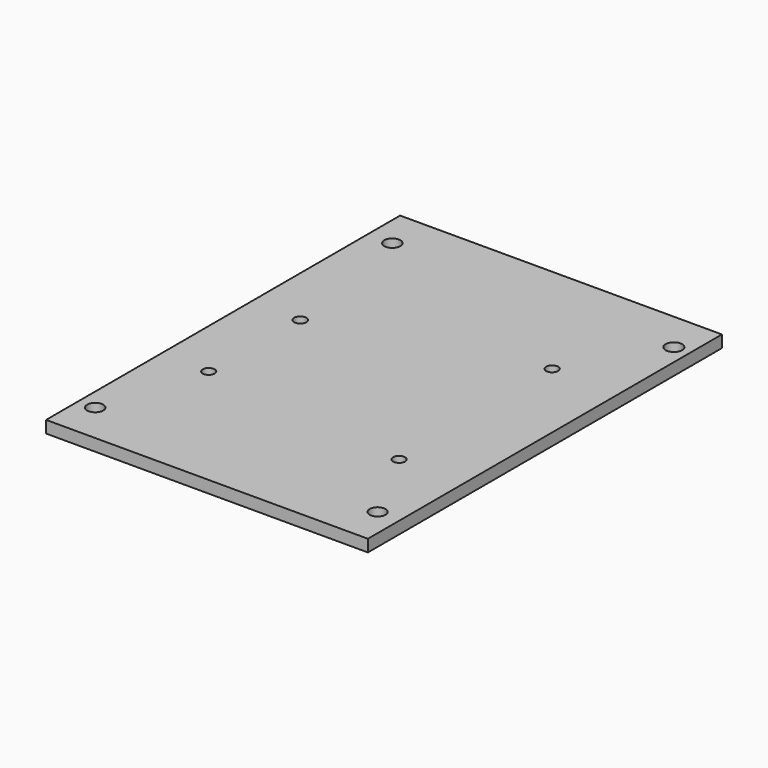
from build123d import *

# Parameters (mm, degrees)
SKETCH010_W     = 80
SKETCH010_H     = 110
PAD010_DEPTH    = 3
SKETCH034_R     = 2.000703
SKETCH034_R_2   = 1.961844
SKETCH034_R_3   = 2.000693
SKETCH034_R_4   = 2.053285
POCKET013_DEPTH = 5
SKETCH009_R     = 1.482535
SKETCH009_R_2   = 1.48253
SKETCH009_R_3   = 1.51367
SKETCH009_R_4   = 1.468475
POCKET014_DEPTH = 5


with BuildPart() as part:
    # Sketch010 → Pad010 (new body)
    with BuildSketch(Plane(origin=(100, 0, 403), x_dir=(1, 0, 0), z_dir=(0, 0, -1))):
        with Locations((68.06718, 204.993062)):
            Rectangle(SKETCH010_W, SKETCH010_H)
    extrude(amount=PAD010_DEPTH)

    # Sketch034 → Pocket013 (cut)
    with BuildSketch(Plane(origin=(100, 0, 400), x_dir=(1, 0, 0), z_dir=(0, 0, -1))):
        with Locations((32.289825, 250)):
            Circle(SKETCH034_R)
        with Locations((102.48175, 250)):
            Circle(SKETCH034_R_2)
        with Locations((34.151398, 160)):
            Circle(SKETCH034_R_3)
        with Locations((104.124298, 160)):
            Circle(SKETCH034_R_4)
    extrude(amount=-POCKET013_DEPTH, mode=Mode.SUBTRACT)

    # Sketch009 → Pocket014 (cut)
    with BuildSketch(Plane(origin=(100, 0, 400), x_dir=(1, 0, 0), z_dir=(0, 0, -1))):
        with Locations((91.958268, 230.158066)):
            Circle(SKETCH009_R)
        with Locations((91.375338, 181.883286)):
            Circle(SKETCH009_R_2)
        with Locations((40.37064, 196.380576)):
            Circle(SKETCH009_R_3)
        with Locations((40, 224.378723)):
            Circle(SKETCH009_R_4)
    extrude(amount=-POCKET014_DEPTH, mode=Mode.SUBTRACT)


solid = part.part
